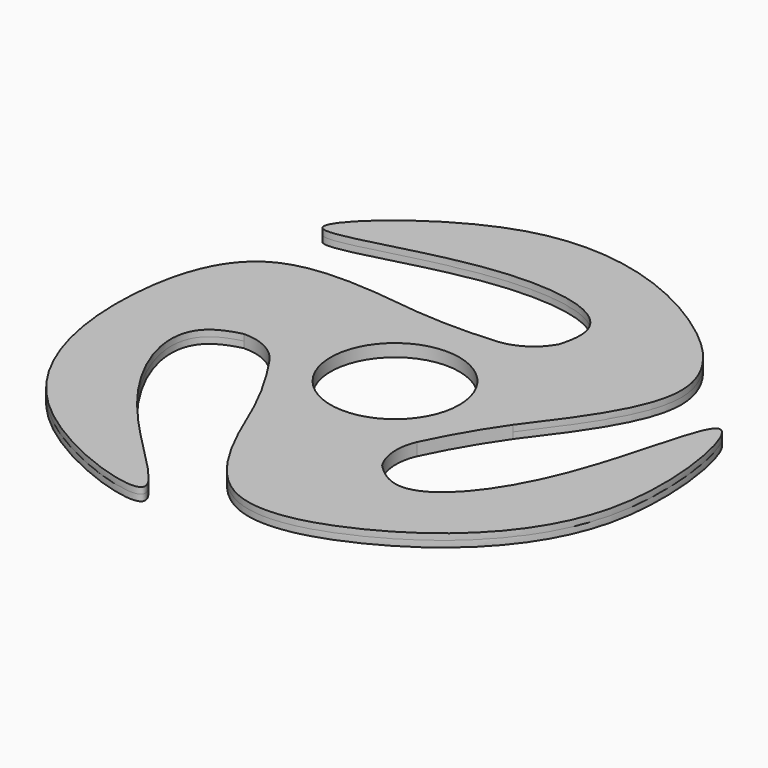
from build123d import *

# Parameters (mm, degrees)
F1_DEPTH  = 1.27
F3_COUNT  = 3
F4_R      = 23.8577276468
F5_DEPTH  = 1.27
F8_DEPTH  = 25.4
F10_DEPTH = 2.54
F11_R     = 13
F12_DEPTH = 25.4


with BuildPart() as f1:
    # F0 (on Top) → F1 (new body, symmetric)
    with BuildSketch(Plane.XY):
        with BuildLine():
            Line((0, 0), (23.8577276468, 0))
            add(Edge.make_bspline(
                [(23.8577276468, 0), (30.5719803383, 8.8777671603), (43.2950820909, 25.7006032082), (24.4859163239, 47.8184188707), (-14.2363203973, 62.1886290432), (-55.6221372384, 25.2098716819), (-12.6738268532, 42.8799527097), (24.5178719661, 36.9777118893), (3.5836276825, 10.1758240366), (0, 0)],
                knots=[0, 0, 0, 0, 0.1255554631, 0.237920095, 0.3870612682, 0.5181911997, 0.6436339777, 0.7647942318, 0.9020804987, 0.9020804987, 0.9020804987, 0.9020804987], degree=3))
        make_face()
    extrude(amount=F1_DEPTH, both=True)


with BuildPart() as f3_1:
    # F3: instance of F1
    add(f1.part.rotate(Axis((0, 0, 5.7280287147), (0, 0, 1)), 1 * 360 / F3_COUNT))


with BuildPart() as f3_2:
    # F3: instance of F1
    add(f1.part.rotate(Axis((0, 0, 5.7280287147), (0, 0, 1)), 2 * 360 / F3_COUNT))


with BuildPart() as f5:
    # F4 (on Top) → F5 (new body, symmetric)
    with BuildSketch(Plane.XY):
        Circle(F4_R)
    extrude(amount=F5_DEPTH, both=True)


with BuildPart() as f1_1:
    add(f1.part)

    # F6: union F3_1, F5, F3_2
    add(f3_1.part)
    add(f5.part)
    add(f3_2.part)

    # F7 (on face) → F8 (cut)
    with BuildSketch(Plane.XY.offset(1.27)):
        with BuildLine():
            ThreePointArc((10.5904510867, 21.3783421773), (-0.7591701545, 23.8456459159), (-11.9288638234, 20.6613982187))
            ThreePointArc((-11.9288638234, 20.6613982187), (-0.6478926448, 20.3504030144), (10.5904510867, 21.3783421773))
        make_face()
        with BuildLine():
            ThreePointArc((-11.9288638234, -20.6613982187), (-17.3000196653, -10.7362929965), (-23.8094129597, -1.5175714101))
            ThreePointArc((-23.8094129597, -1.5175714101), (-20.2713500556, -12.5802835975), (-11.9288638234, -20.6613982187))
        make_face()
        with BuildLine():
            ThreePointArc((13.218961873, -19.8607707673), (21.0305202101, -11.2653623184), (23.8577276468, 0))
            ThreePointArc((23.8577276468, 0), (17.9479123101, -9.6141100178), (13.218961873, -19.8607707673))
        make_face()
    extrude(amount=-F8_DEPTH, mode=Mode.SUBTRACT)

    # F9 (on face) → F10 (join)
    with BuildSketch(Plane.XY.offset(1.27)):
        with BuildLine():
            ThreePointArc((12.3350317991, 25.983955439), (8.9849713809, 22.3308436019), (4.325890987, 20.6393647271))
            ThreePointArc((4.325890987, 20.6393647271), (7.4643017139, 20.9568816429), (10.5904510867, 21.3783421773))
            add(Edge.make_bspline(
                [(12.3350317991, 25.983955439), (11.9039725752, 24.5216532404), (11.3022443095, 22.9761034981), (10.5904510867, 21.3783421773)],
                knots=[0.7961507909, 0.7961507909, 0.7961507909, 0.7961507909, 0.8158514513, 0.8158514513, 0.8158514513, 0.8158514513], degree=3))
        make_face()
        with BuildLine():
            ThreePointArc((16.3352496014, -23.674428614), (14.8465921567, -18.946635269), (15.7112686782, -14.0660138523))
            ThreePointArc((15.7112686782, -14.0660138523), (14.4170410298, -16.9427157272), (13.218961873, -19.8607707673))
            add(Edge.make_bspline(
                [(16.3352496014, -23.674428614), (15.2843883614, -22.5699692763), (14.2467671546, -21.2760824408), (13.218961873, -19.8607707673)],
                knots=[0.7961507909, 0.7961507909, 0.7961507909, 0.7961507909, 0.8158514513, 0.8158514513, 0.8158514513, 0.8158514513], degree=3))
        make_face()
        with BuildLine():
            add(Edge.make_bspline(
                [(-28.6702814005, -2.309526825), (-27.1883609366, -1.9516839641), (-25.549011464, -1.7000210573), (-23.8094129597, -1.5175714101)],
                knots=[0.7961507909, 0.7961507909, 0.7961507909, 0.7961507909, 0.8158514513, 0.8158514513, 0.8158514513, 0.8158514513], degree=3))
            ThreePointArc((-28.6702814005, -2.309526825), (-23.8315635376, -3.3842083328), (-20.0371596652, -6.5733508748))
            ThreePointArc((-20.0371596652, -6.5733508748), (-21.8813427438, -4.0141659156), (-23.8094129597, -1.5175714101))
        make_face()
    extrude(amount=-F10_DEPTH)

    # F11 (on face) → F12 (cut)
    with BuildSketch(Plane.XY.offset(1.27)):
        Circle(F11_R)
    extrude(amount=-F12_DEPTH, mode=Mode.SUBTRACT)


solid = f1_1.part
